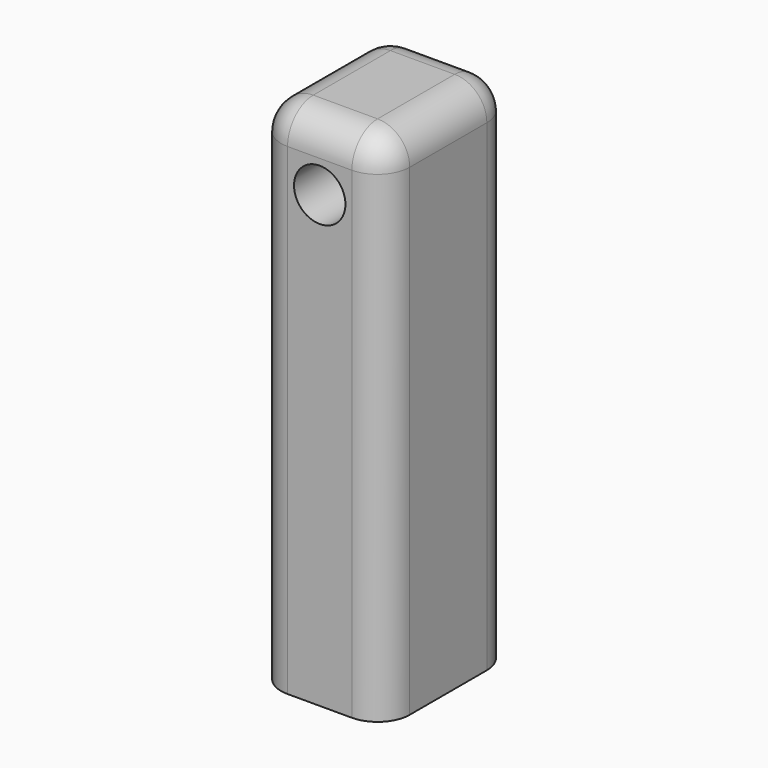
from build123d import *

# Parameters (mm, degrees)
F0_W     = 20
F0_H     = 80
F1_DEPTH = 25
F2_R     = 4
F3_DEPTH = 25
F4_R     = 5


with BuildPart() as f1:
    # F0 (on Front) → F1 (new body)
    with BuildSketch(Plane.XZ):
        Rectangle(F0_W, F0_H)
    extrude(amount=F1_DEPTH)

    # F2 (on face) → F3 (cut)
    with BuildSketch(Plane.XZ.offset(25)):
        with Locations((0, 30)):
            Circle(F2_R)
    extrude(amount=-F3_DEPTH, mode=Mode.SUBTRACT)

    # F4
    f4_edges = [f1.edges().sort_by_distance(p)[0] for p in [
        (0, -25, 40),
        (10, -12.5, 40),
        (0, 0, 40),
        (-10, -12.5, 40),
        (10, -25, 0),
        (-10, 0, 0),
        (10, 0, 0),
        (-10, -25, 0),
    ]]
    fillet(f4_edges, radius=F4_R)


solid = f1.part
